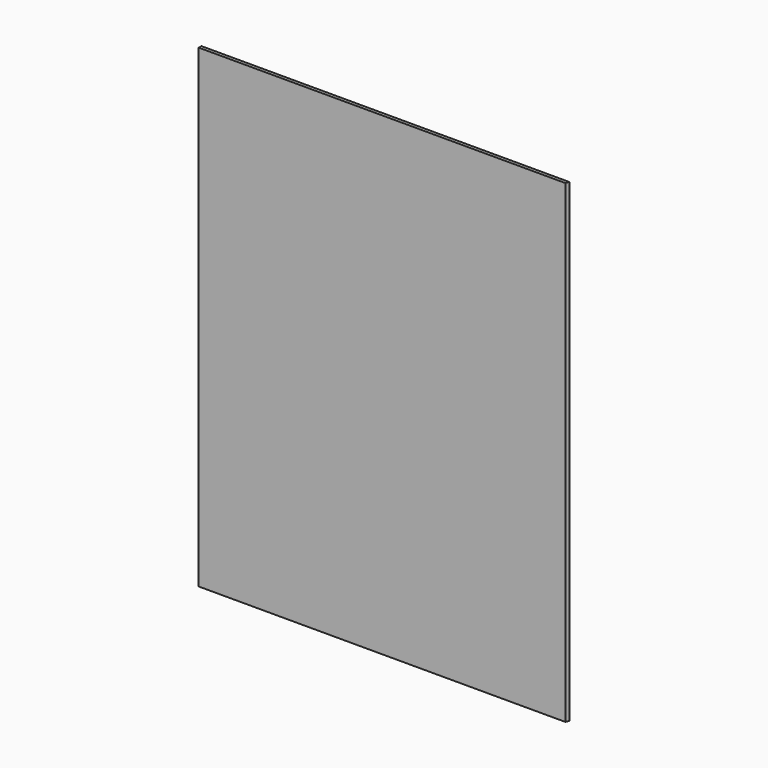
from build123d import *

# Parameters (mm, degrees)
F0_W     = 656
F0_H     = 846
F1_DEPTH = 6
F3_DEPTH = 870


with BuildPart() as f1:
    # F0 (on Front) → F1 (new body)
    with BuildSketch(Plane.XZ):
        Rectangle(F0_W, F0_H)
    extrude(amount=F1_DEPTH)

    # F2 (on face) → F3 (cut)
    with BuildSketch(Plane.XY.offset(423)):
        Polygon((325.696816, -6), (328, -6), (328, 0), align=None)
    extrude(amount=-F3_DEPTH, mode=Mode.SUBTRACT)


solid = f1.part
